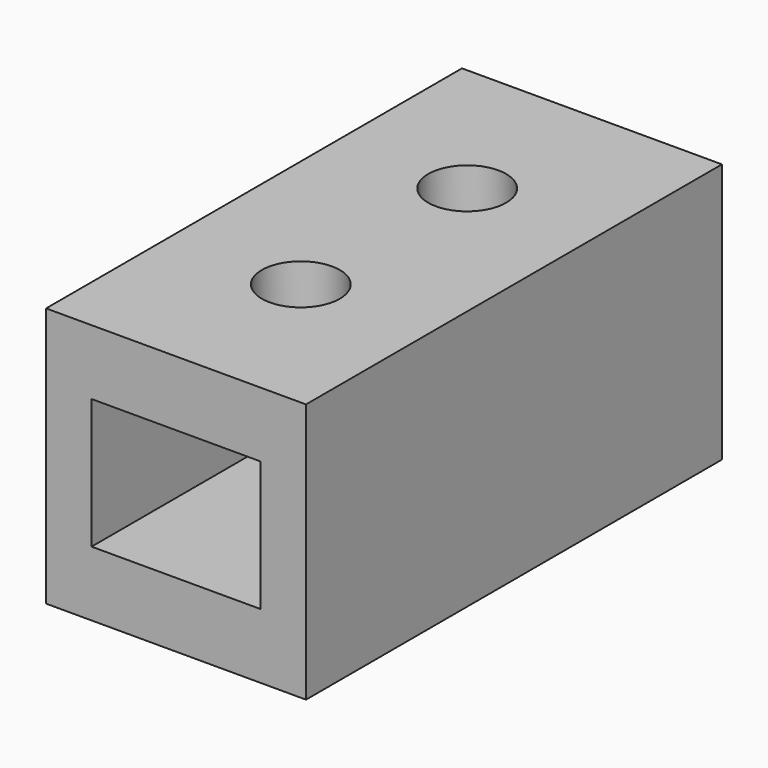
from build123d import *

# Parameters (mm, degrees)
F0_W     = 25.4
F0_H     = 50.8
F1_DEPTH = 25.4
F2_W     = 16.51
F2_H     = 12.7
F3_DEPTH = 50.8
F4_R     = 3.81
F5_DEPTH = 15.24


with BuildPart() as f1:
    # F0 (on Top) → F1 (new body)
    with BuildSketch(Plane.XY):
        with Locations((2.239326, 0)):
            Rectangle(F0_W, F0_H)
    extrude(amount=F1_DEPTH)

    # F2 (on face) → F3 (cut)
    with BuildSketch(Plane.XZ.offset(25.4)):
        with Locations((2.239326, 12.7)):
            Rectangle(F2_W, F2_H)
    extrude(amount=-F3_DEPTH, mode=Mode.SUBTRACT)

    # F4 (on face) → F5 (cut)
    with BuildSketch(Plane.XY.offset(25.4)):
        with Locations((2.239326, 10.16)):
            Circle(F4_R)
        with Locations((2.239326, -10.16)):
            Circle(F4_R)
    extrude(amount=-F5_DEPTH, mode=Mode.SUBTRACT)


solid = f1.part
